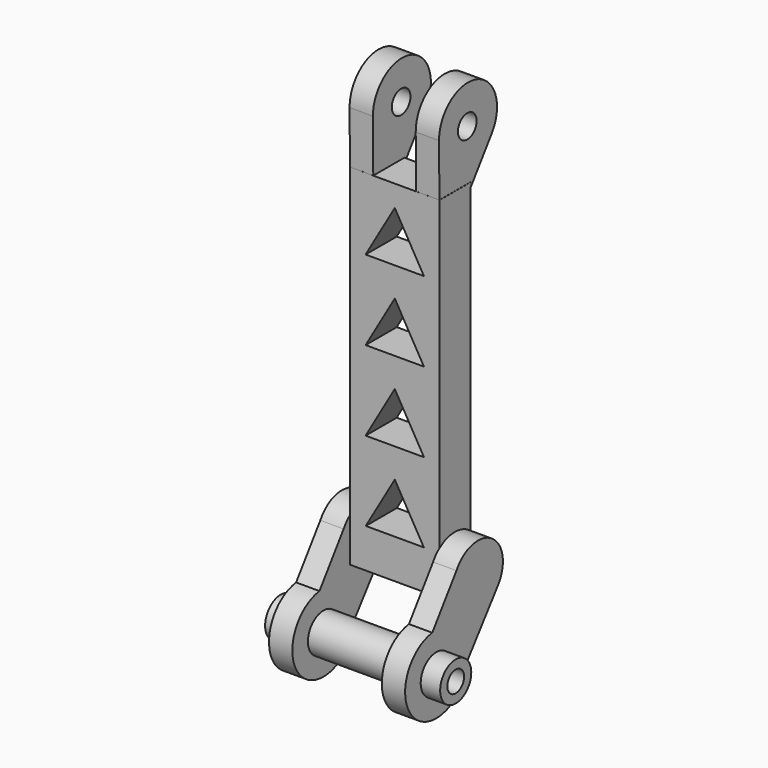
from build123d import *

# Parameters (mm, degrees)
SKETCH017_R       = 3
EXTRUDE016_DEPTH  = 6
SKETCH016_W       = 23
SKETCH016_H       = 90
EXTRUDE015_DEPTH  = 10
CYLINDER018_R     = 3
CYLINDER018_DEPTH = 25
CYLINDER013_R     = 7
CYLINDER013_DEPTH = 30
CYLINDER012_R     = 10
CYLINDER012_DEPTH = 6
EXTRUDE001_DEPTH  = 6
BOX022_W          = 23
BOX022_H          = 10
BOX022_DEPTH      = 10
CYLINDER021_R     = 2.7
CYLINDER021_DEPTH = 50
CYLINDER020_R     = 5
CYLINDER020_DEPTH = 45


with BuildPart() as union_brazo_central002:
    # Sketch017 → Extrude016 (new body)
    with BuildSketch(Plane(origin=(0, 0, 0), x_dir=(0, -1, 0), z_dir=(-1, 0, 0))):
        with BuildLine():
            ThreePointArc((-10.900695, 145.407872), (-23.024313, 154.355924), (-27.779278, 140.057671))
            Line((-27.779278, 140.057671), (-20.026942, 129.238365))
            Line((-20.026942, 129.238365), (-11.026942, 129.238365))
            Line((-10.900695, 145.407872), (-11.026942, 129.238365))
        make_face()
        with Locations((-19.957954, 144.958669)):
            Circle(SKETCH017_R, mode=Mode.SUBTRACT)
    extrude(amount=EXTRUDE016_DEPTH)


with BuildPart() as union_brazo_central002_1:
    # Extrude016 placement: moved
    add(union_brazo_central002.part.moved(Location((63, 0, 0))))


with BuildPart() as palo_central:
    # Sketch016 → Extrude015 (new body)
    with BuildSketch(Plane.XZ):
        with Locations((68.535034, 86.905613)):
            Rectangle(SKETCH016_W, SKETCH016_H)
        Polygon((68.535034, 64.926588), (61.035034, 51.936207), (76.035034, 51.936207), align=None, mode=Mode.SUBTRACT)
        Polygon((68.535034, 85.416969), (61.035034, 72.426588), (76.035034, 72.426588), align=None, mode=Mode.SUBTRACT)
        Polygon((68.535034, 105.90735), (61.035034, 92.916969), (76.035034, 92.916969), align=None, mode=Mode.SUBTRACT)
        Polygon((68.535034, 126.397731), (61.035034, 113.40735), (76.035034, 113.40735), align=None, mode=Mode.SUBTRACT)
    extrude(amount=EXTRUDE015_DEPTH)


with BuildPart() as palo_central_1:
    # Extrude015 placement: moved
    add(palo_central.part.moved(Location((0, 21, 0))))


with BuildPart() as rotor008:
    # Cylinder018 → Cylinder018 (new body)
    with BuildSketch(Plane(origin=(40, 2.5, 30), x_dir=(0, 0, -1), z_dir=(1, 0, 0))):
        Circle(CYLINDER018_R)
    extrude(amount=CYLINDER018_DEPTH)


with BuildPart() as rotor003:
    # Cylinder013 → Cylinder013 (new body)
    with BuildSketch(Plane(origin=(63, 2.5, 30), x_dir=(0, 0, -1), z_dir=(1, 0, 0))):
        Circle(CYLINDER013_R)
    extrude(amount=CYLINDER013_DEPTH)


with BuildPart() as obj1:
    # Cylinder012 → Cylinder012 (new body)
    with BuildSketch(Plane(origin=(54, 2.5, 30), x_dir=(0, 0, -1), z_dir=(1, 0, 0))):
        Circle(CYLINDER012_R)
    extrude(amount=CYLINDER012_DEPTH)

    # Cut008: cut Rotor003
    add(rotor003.part, mode=Mode.SUBTRACT)

    # Cut011: cut Rotor008
    add(rotor008.part, mode=Mode.SUBTRACT)


with BuildPart() as union_motor_centro:
    # Sketch001 → Extrude001 (new body)
    with BuildSketch(Plane.YZ):
        with BuildLine():
            ThreePointArc((22.654639, 41.99706), (20.679007, 53.483206), (9.335322, 50.808228))
            Line((9.335322, 50.808228), (1.552816, 39.899855))
            ThreePointArc((12.665635, 28.738862), (9.310536, 36.511168), (1.552816, 39.899855))
            Line((22.654639, 41.99706), (12.665635, 28.738862))
        make_face()
    extrude(amount=EXTRUDE001_DEPTH)


with BuildPart() as union_motor_centro_1:
    # Extrude001 placement: moved
    add(union_motor_centro.part.moved(Location((54, -0.35, 0))))

    # Fusion013: union obj1
    add(obj1.part)


with BuildPart() as union_motor_centro001:
    # Link016 base: copy of Union motor centro
    add(union_motor_centro_1.part)


with BuildPart() as union_motor_centro001_1:
    # Link016 placement: moved
    add(union_motor_centro001.part.moved(Location((28.999998, -3e-06, 0))))


with BuildPart() as obj2:
    # Box022 → Box022 (new body)
    with BuildSketch(Plane(origin=(60, 11, 42), x_dir=(1, 0, 0), z_dir=(0, 0, 1))):
        with Locations((11.5, 5)):
            Rectangle(BOX022_W, BOX022_H)
    extrude(amount=BOX022_DEPTH)


with BuildPart() as hueco_rotor:
    # Cylinder021 → Cylinder021 (new body)
    with BuildSketch(Plane(origin=(37, 2.5, 30), x_dir=(0, 0, -1), z_dir=(1, 0, 0))):
        Circle(CYLINDER021_R)
    extrude(amount=CYLINDER021_DEPTH)


with BuildPart() as union_rotor_brazo:
    # Cylinder020 → Cylinder020 (new body)
    with BuildSketch(Plane(origin=(40, 2.5, 30), x_dir=(0, 0, -1), z_dir=(1, 0, 0))):
        Circle(CYLINDER020_R)
    extrude(amount=CYLINDER020_DEPTH)

    # Cut012: cut hueco rotor
    add(hueco_rotor.part, mode=Mode.SUBTRACT)


with BuildPart() as union_rotor_brazo_1:
    # Cut012 placement: moved
    add(union_rotor_brazo.part.moved(Location((9, 0, 0))))

    # Fusion014: union Union motor centro001, Union motor centro, obj2
    add(union_motor_centro001_1.part)
    add(union_motor_centro_1.part)
    add(obj2.part)


with BuildPart() as union_rotor_brazo_2:
    # Fusion014 placement: moved
    add(union_rotor_brazo_1.part.moved(Location((-3, 0, 0))))


with BuildPart() as brazo_central_v2:
    # Link018 base: copy of Union brazo central002
    add(union_brazo_central002_1.part)


with BuildPart() as brazo_central_v2_1:
    # Link018 placement: moved
    add(brazo_central_v2.part.moved(Location((17.000008, -1e-05, 0))))

    # Fusion022: union Union brazo central002, Palo central, Union rotor brazo
    add(union_brazo_central002_1.part)
    add(palo_central_1.part)
    add(union_rotor_brazo_2.part)


solid = brazo_central_v2_1.part
